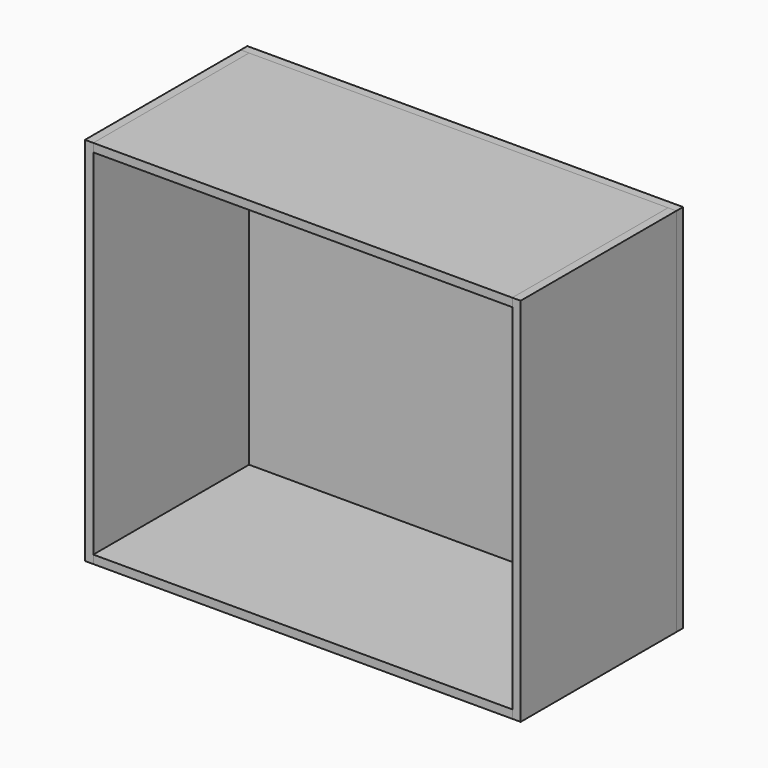
from build123d import *

# Parameters (mm, degrees)
F1_DEPTH = 800
F2_W     = 904
F2_H     = 420
F3_DEPTH = 18
F5_DEPTH = 18
F6_W     = 904
F6_H     = 18
F7_DEPTH = 18


with BuildPart() as f1:
    # F0 (on Top) → F1 (new body)
    with BuildSketch(Plane.XY):
        Polygon((-470, -210), (-452, -210), (-452, -192), (-452, 192), (-452, 210), (-470, 210), align=None)
    extrude(amount=F1_DEPTH)


with BuildPart() as f1b:
    # F0 (on Top) → F1, piece 2 (new body)
    with BuildSketch(Plane.XY):
        Polygon((452, -210), (470, -210), (470, 210), (452, 210), (452, 192), (452, -192), align=None)
    extrude(amount=F1_DEPTH)


with BuildPart() as f3:
    # F2 (on face) → F3 (new body)
    with BuildSketch(Plane.XY.offset(800)):
        Rectangle(F2_W, F2_H)
    extrude(amount=-F3_DEPTH)


with BuildPart() as f5:
    # F4 (on face) → F5 (new body)
    with BuildSketch(Plane.XY):
        Polygon((-452, -192), (-452, -210), (452, -210), (452, 210), (-452, 210), (-452, 192), align=None)
    extrude(amount=F5_DEPTH)


with BuildPart() as f7:
    # F6 (on face) → F7 (new body)
    with BuildSketch(Plane(origin=(0, 210, 0), x_dir=(-1, 0, 0), z_dir=(0, 1, 0))):
        Polygon((-452, 800), (-470, 800), (-470, 0), (470, 0), (470, 800), (452, 800), (452, 782), (-452, 782), align=None)
        with Locations((0, 791)):
            Rectangle(F6_W, F6_H)
    extrude(amount=F7_DEPTH)


solid = Compound([f1.part, f1b.part, f3.part, f5.part, f7.part])
